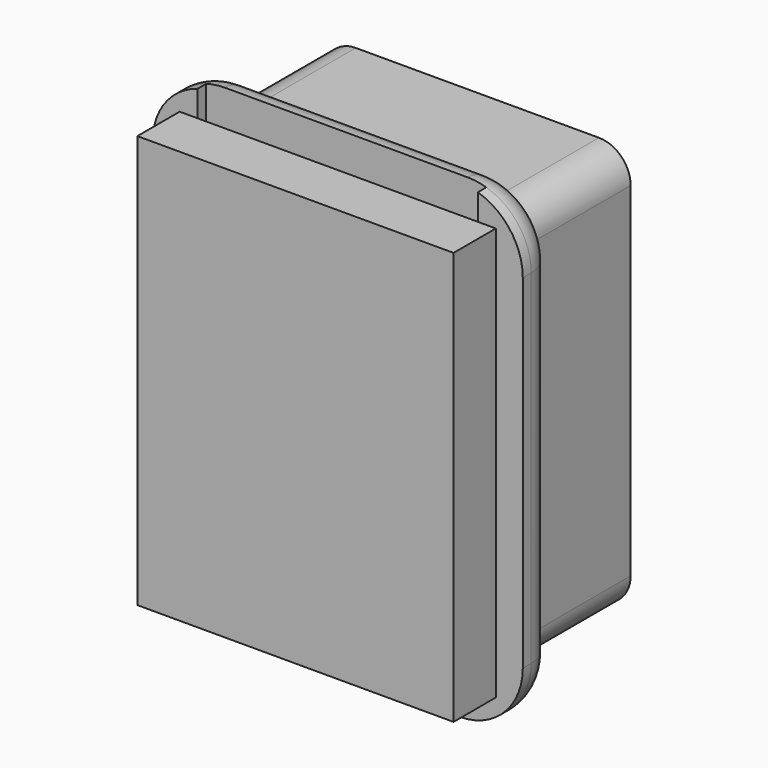
from build123d import *

# Parameters (mm, degrees)
F0_W     = 70
F0_H     = 89
F1_DEPTH = 8
F2_R     = 12
F3_R     = 6
F4_W     = 52.9997386038
F4_H     = 141.1219484508
F5_DEPTH = 2
F6_W     = 59.8021745682
F6_H     = 78.1007856131
F7_DEPTH = 10
F8_DEPTH = 25


with BuildPart() as f1:
    # F0 (on Front) → F1 (new body)
    with BuildSketch(Plane.XZ):
        Rectangle(F0_W, F0_H)
    extrude(amount=-F1_DEPTH)

    # F2
    f2_edges = [f1.edges().sort_by_distance(p)[0] for p in [
        (-35, 4, 44.5),
        (35, 4, 44.5),
        (-35, 4, -44.5),
        (35, 4, -44.5),
    ]]
    fillet(f2_edges, radius=F2_R)

    # F3
    f3_edges = [f1.edges().sort_by_distance(p)[0] for p in [
        (0, 8, 44.5),
        (31.485281, 8, 40.985281),
        (35, 8, 0),
        (31.485281, 8, -40.985281),
        (0, 8, -44.5),
        (-31.485281, 8, -40.985281),
        (-35, 8, 0),
        (-31.485281, 8, 40.985281),
    ]]
    fillet(f3_edges, radius=F3_R)

    # F4 (on face) → F5 (cut)
    with BuildSketch(Plane.XZ):
        with Locations((0, 44.5)):
            Rectangle(F4_W, F4_H)
    extrude(amount=-F5_DEPTH, mode=Mode.SUBTRACT)

    # F8 (add): a face of the model
    f8_faces = [f1.faces().sort_by_distance(p)[0] for p in [
        (0, 8, 0),
    ]]
    extrude(f8_faces, amount=F8_DEPTH)


with BuildPart() as f7:
    # F6 (on face) → F7 (new body)
    with BuildSketch(Plane.XZ):
        Rectangle(F6_W, F6_H)
    extrude(amount=F7_DEPTH)


solid = Compound([f1.part, f7.part])
